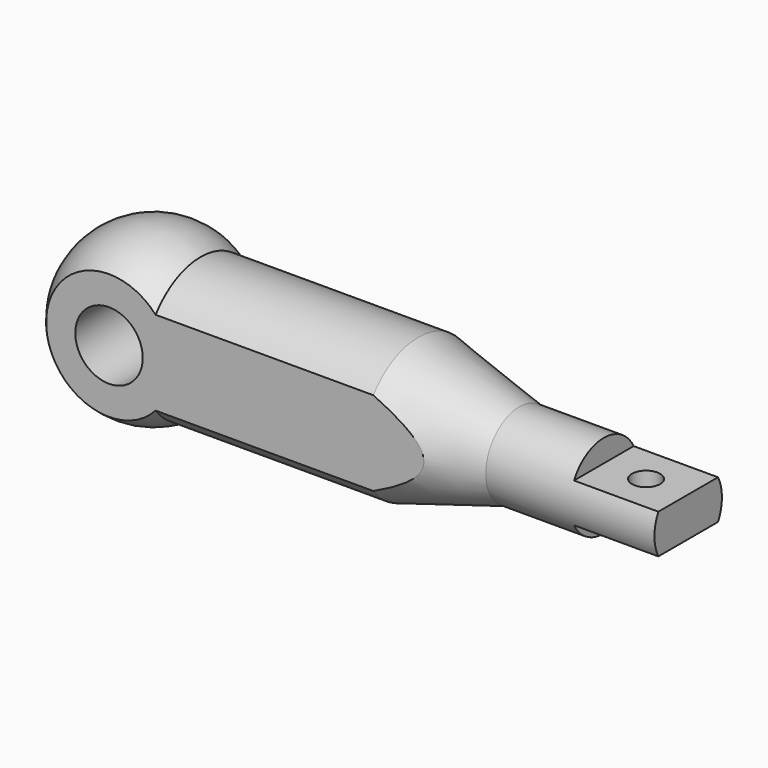
from build123d import *

# Parameters (mm, degrees)
F2_W          = 15
F2_H          = 4
F3_DEPTH      = 15.001
F3_DEPTH_BACK = 15.001
F5_DEPTH      = 110.001
F6_R          = 6
F7_DEPTH      = 10.001
F7_DEPTH_BACK = 10.001
F8_R          = 2.5
F9_DEPTH      = 18.501


with BuildPart() as f1:
    # F0 (on Front) → F1 (revolve)
    with BuildSketch(Plane.XZ):
        with BuildLine():
            ThreePointArc((8.2915619759, 12.5), (-7.0931858273, 13.2169101843), (-15, 0))
            Line((-15, 0), (95, 0))
            Line((95, 0), (95, 7.5))
            Line((95, 7.5), (65, 7.5))
            Line((65, 7.5), (47, 12.5))
            Line((47, 12.5), (8.2915619759, 12.5))
        make_face()
    revolve(axis=Axis((40, 0, 0), (-1, 0, 0)))

    # F2 (on Front) → F3 (cut, two sides)
    with BuildSketch(Plane.XZ) as f3_sk:
        with Locations((87.5, 5.5)):
            Rectangle(F2_W, F2_H)
        with Locations((87.5, -5.5)):
            Rectangle(F2_W, F2_H)
    extrude(amount=F3_DEPTH, mode=Mode.SUBTRACT)
    extrude(f3_sk.sketch, amount=-F3_DEPTH_BACK, mode=Mode.SUBTRACT)

    # F4 (on face) → F5 (cut, through all)
    with BuildSketch(Plane.YZ.offset(95)):
        with BuildLine():
            Line((-10, -11.1803398875), (-10, 11.1803398875))
            ThreePointArc((-10, 11.1803398875), (-15, 0), (-10, -11.1803398875))
        make_face()
        with BuildLine():
            ThreePointArc((10, -11.1803398875), (15, 0), (10, 11.1803398875))
            Line((10, 11.1803398875), (10, -11.1803398875))
        make_face()
    extrude(amount=-F5_DEPTH, mode=Mode.SUBTRACT)

    # F6 (on Front) → F7 (cut, two sides)
    with BuildSketch(Plane.XZ) as f7_sk:
        Circle(F6_R)
    extrude(amount=-F7_DEPTH, mode=Mode.SUBTRACT)
    extrude(f7_sk.sketch, amount=F7_DEPTH_BACK, mode=Mode.SUBTRACT)

    # F8 (on face) → F9 (cut, through all)
    with BuildSketch(Plane.XY.offset(3.5)):
        with Locations((87.5, 0)):
            Circle(F8_R)
    extrude(amount=-F9_DEPTH, mode=Mode.SUBTRACT)


solid = f1.part
